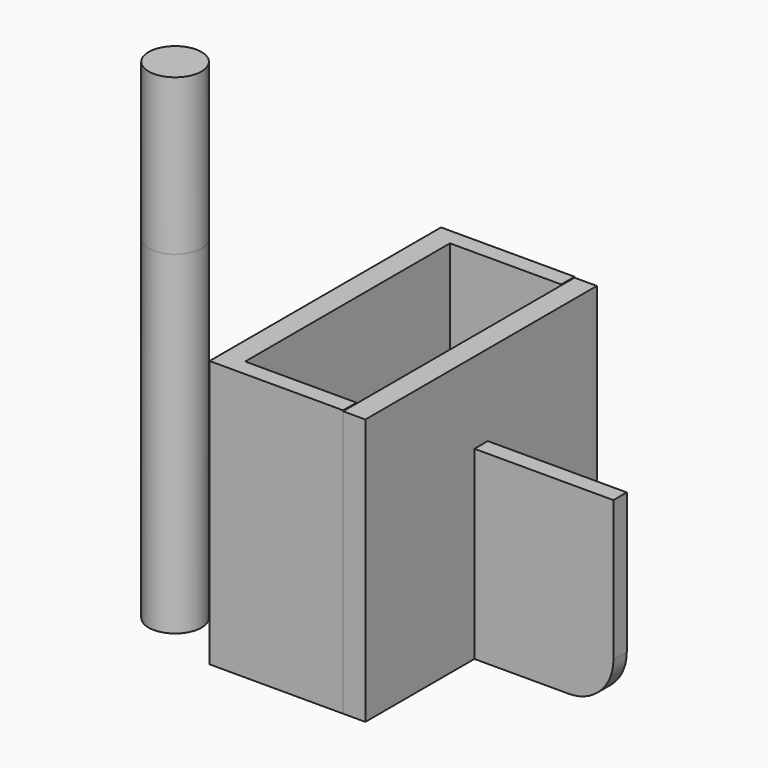
from build123d import *

# Parameters (mm, degrees)
F1_W           = 165.1
F1_H           = 152.4
F2_DEPTH       = 12.7
F2_DEPTH_BACK  = 63.5
F3_R           = 15.08125
F4_DEPTH       = 190.5
F4_DEPTH_BACK  = 88.9
F5_W           = 63.5
F5_H           = 146.05
F6_DEPTH       = 190.501
F7_W           = 165.1
F7_H           = 151.91683079
F8_DEPTH       = 12.7
F10_DEPTH      = 4.7625
F10_DEPTH_BACK = 4.7625


with BuildPart() as f2:
    # F1 (on offset) → F2 (new body, two sides)
    with BuildSketch(Plane.YZ.offset(254)) as f2_sk:
        Rectangle(F1_W, F1_H)
    extrude(amount=-F2_DEPTH)
    extrude(f2_sk.sketch, amount=F2_DEPTH_BACK)

    # F5 (on face) → F6 (cut, through all)
    with BuildSketch(Plane.XY.offset(76.2)):
        with Locations((285.75, 0)):
            Rectangle(F5_W, F5_H)
    extrude(amount=-F6_DEPTH, mode=Mode.SUBTRACT)


with BuildPart() as f4:
    # F3 (on face) → F4 (new body, two sides)
    with BuildSketch(Plane.XY.offset(76.2)) as f4_sk:
        with Locations((155.575, 0)):
            Circle(F3_R)
    extrude(amount=-F4_DEPTH)
    extrude(f4_sk.sketch, amount=F4_DEPTH_BACK)


with BuildPart() as f8:
    # F7 (on face) → F8 (new body)
    with BuildSketch(Plane.YZ.offset(317.5)):
        with Locations((0, -0.241584605)):
            Rectangle(F7_W, F7_H)
    extrude(amount=F8_DEPTH)


with BuildPart() as f10:
    # F9 (on Front) → F10 (new body, two sides)
    with BuildSketch(Plane.XZ) as f10_sk:
        with BuildLine():
            Line((330.2, 29.3925244), (330.2, -76.2))
            Line((330.2, -76.2), (384.1022377459, -76.2))
            ThreePointArc((384.1022377459, -76.2), (402.0627499881, -68.7605122421), (409.5022377459, -50.8))
            Line((409.5022377459, -50.8), (409.5022377459, 29.3925244))
            Line((409.5022377459, 29.3925244), (330.2, 29.3925244))
        make_face()
    extrude(amount=F10_DEPTH)
    extrude(f10_sk.sketch, amount=-F10_DEPTH_BACK)


solid = Compound([f2.part, f4.part, f8.part, f10.part])
